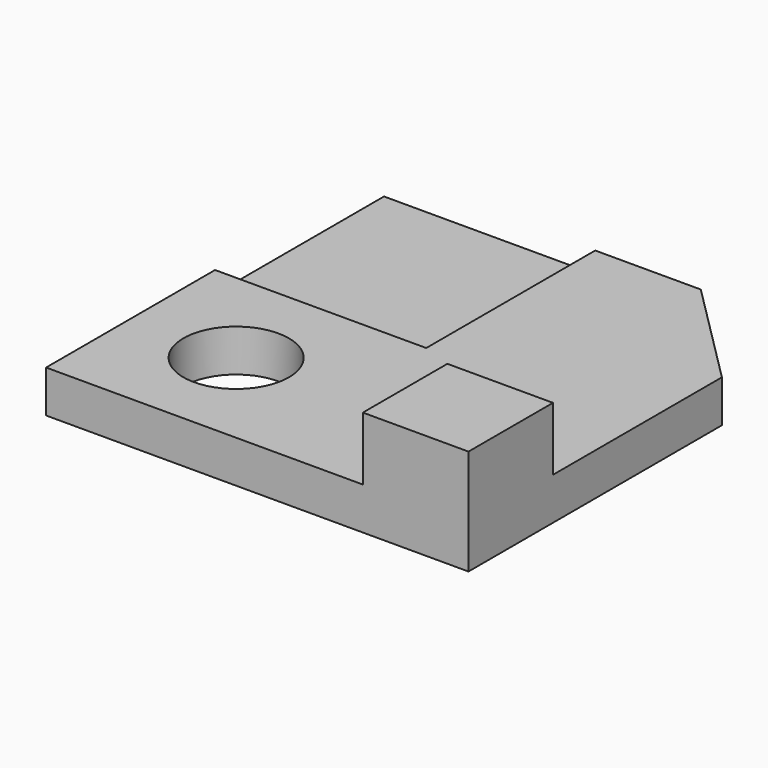
from build123d import *

# Parameters (mm, degrees)
F0_W     = 10
F0_H     = 10
F1_DEPTH = 1
F0_R     = 2.5
F2_DEPTH = 2
F0_W_2   = 5
F0_H_2   = 5
F3_DEPTH = 5
F4_SIZE  = 5


with BuildPart() as f1:
    # F0 (on Top) → F1 (new body)
    with BuildSketch(Plane.XY):
        with Locations((-57.417053, 30.885033)):
            Rectangle(F0_W, F0_H)
    extrude(amount=F1_DEPTH)

    # F0 (on Top) → F2 (join)
    with BuildSketch(Plane.XY):
        Polygon((-42.417053, 35.885033), (-52.417053, 35.885033), (-52.417053, 25.885033), (-62.417053, 25.885033), (-62.417053, 15.885033), (-47.417053, 15.885033), (-47.417053, 20.885033), (-42.417053, 20.885033), align=None)
        with Locations((-57.417053, 20.885033)):
            Circle(F0_R, mode=Mode.SUBTRACT)
    extrude(amount=F2_DEPTH)

    # F0 (on Top) → F3 (join)
    with BuildSketch(Plane.XY):
        with Locations((-44.917053, 18.385033)):
            Rectangle(F0_W_2, F0_H_2)
    extrude(amount=F3_DEPTH)

    # F4
    f4_edges = [f1.edges().sort_by_distance(p)[0] for p in [
        (-42.417053, 35.885033, 1),
    ]]
    chamfer(f4_edges, length=F4_SIZE)


solid = f1.part
